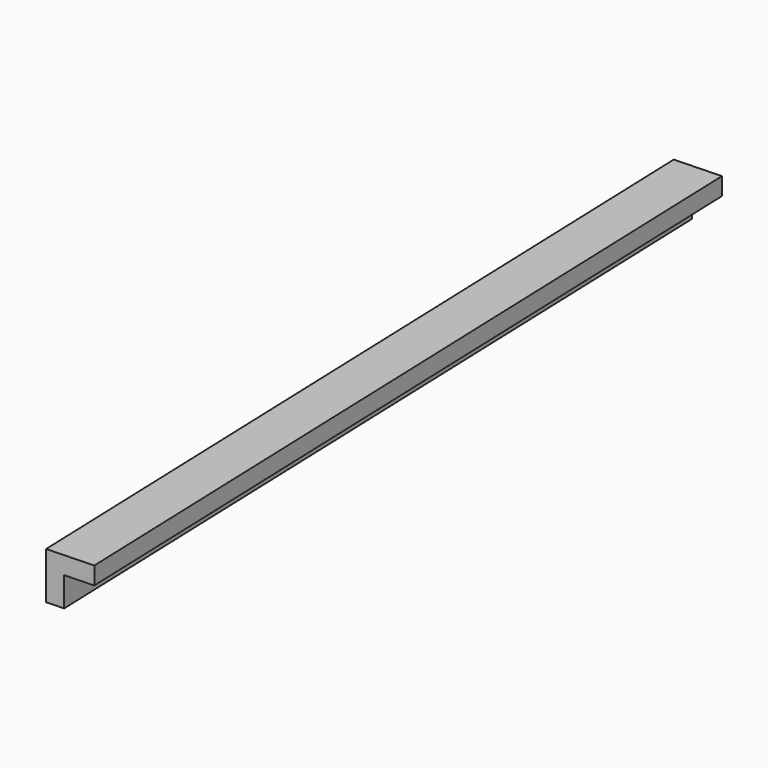
from build123d import *

# Parameters (mm, degrees)
BOX179_W               = 0.8
BOX179_H               = 14
BOX179_DEPTH           = 0.8
BOX180_W               = 0.8
BOX180_H               = 14
BOX180_DEPTH           = 0.8
CUT093_PLACEMENT_ANGLE = 182


with BuildPart() as cubo179:
    # Box179 → Box179 (new body)
    with BuildSketch(Plane.XY):
        with Locations((0.4, 7)):
            Rectangle(BOX179_W, BOX179_H)
    extrude(amount=BOX179_DEPTH)


with BuildPart() as obj1:
    # Box180 → Box180 (new body)
    with BuildSketch(Plane(origin=(0.3, 0, 0.3), x_dir=(1, 0, 0), z_dir=(0, 0, 1))):
        with Locations((0.4, 7)):
            Rectangle(BOX180_W, BOX180_H)
    extrude(amount=BOX180_DEPTH)

    # Cut093: cut Cubo179
    add(cubo179.part, mode=Mode.SUBTRACT)


with BuildPart() as obj1_1:
    # Cut093 placement: moved
    add(obj1.part.moved(Location((-154.3, 174.9, -1.45))).rotate(Axis((-154.3, 174.9, -1.45), (0, 0, 1)), CUT093_PLACEMENT_ANGLE))


solid = obj1_1.part
